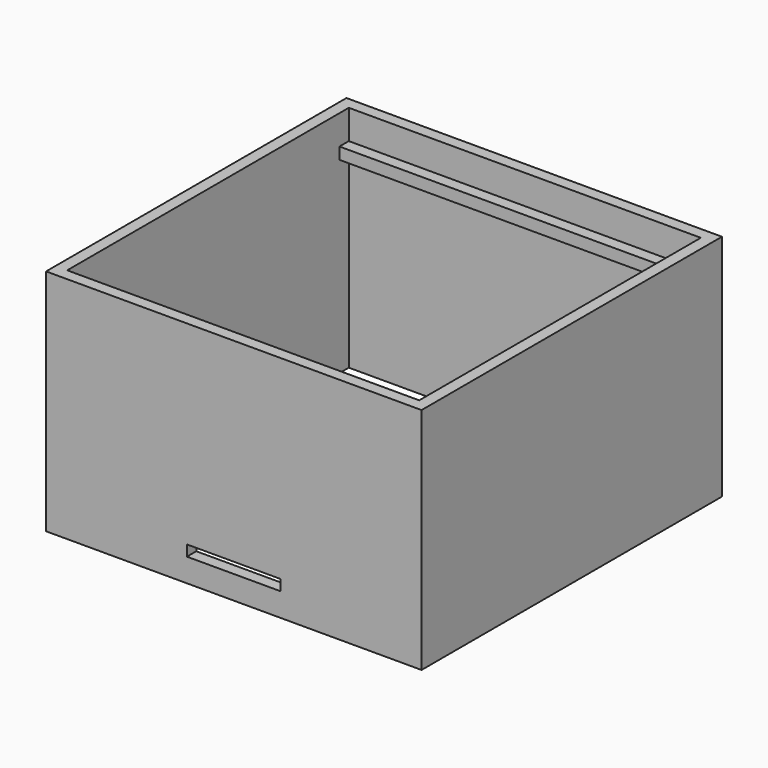
from build123d import *

# Parameters (mm, degrees)
F1_DEPTH = 123.825
F2_W     = 190.5
F2_H     = 6.35
F3_DEPTH = 6.35
F4_W     = 190.5
F4_H     = 6.35
F5_DEPTH = 6.35
F7_DEPTH = 25.4


with BuildPart() as f1:
    # F0 (on Top) → F1 (new body)
    with BuildSketch(Plane.XY):
        Polygon((101.6, -101.6), (101.6, 101.6), (95.25, 95.25), (95.25, -95.25), align=None)
        Polygon((-95.25, -95.25), (-101.6, -101.6), (101.6, -101.6), (95.25, -95.25), align=None)
        Polygon((-95.25, 95.25), (-101.6, 101.6), (-101.6, -101.6), (-95.25, -95.25), align=None)
        Polygon((101.6, 101.6), (-101.6, 101.6), (-95.25, 95.25), (95.25, 95.25), align=None)
    extrude(amount=F1_DEPTH)

    # F2 (on face) → F3 (join)
    with BuildSketch(Plane.XZ.offset(-95.25)):
        with Locations((0, 104.775)):
            Rectangle(F2_W, F2_H)
    extrude(amount=F3_DEPTH)

    # F4 (on face) → F5 (join)
    with BuildSketch(Plane(origin=(0, -95.25, 0), x_dir=(-1, 0, 0), z_dir=(0, 1, 0))):
        with Locations((0, 104.775)):
            Rectangle(F4_W, F4_H)
    extrude(amount=F5_DEPTH)

    # F6 (on face) → F7 (cut)
    with BuildSketch(Plane.XZ.offset(101.6)):
        Polygon((-25.4, 12.7), (0, 12.7), (25.4, 12.7), (25.4, 18.542), (-25.4, 18.542), align=None)
    extrude(amount=-F7_DEPTH, mode=Mode.SUBTRACT)


solid = f1.part
